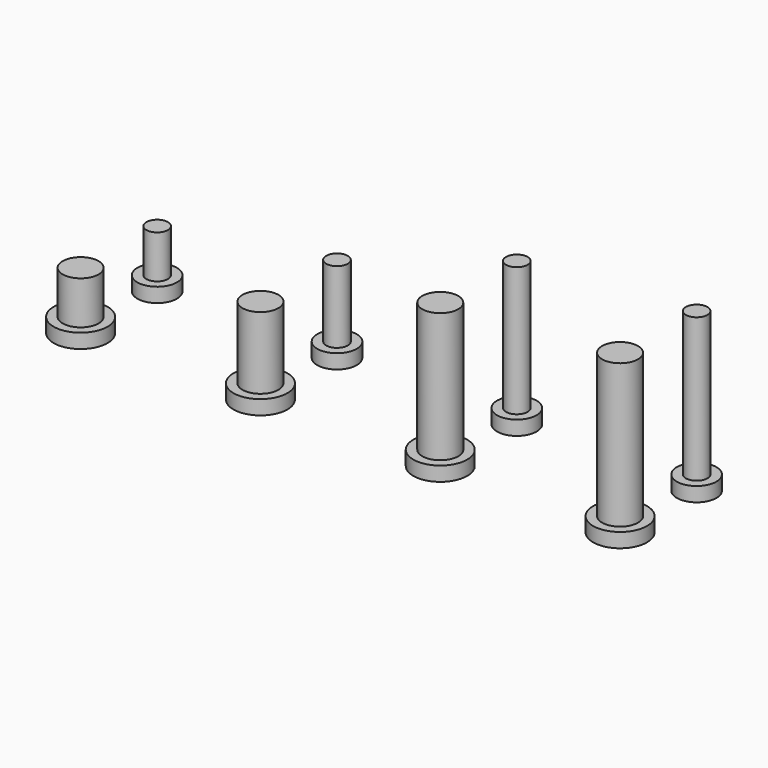
from build123d import *

# Parameters (mm, degrees)
F0_R     = 2.75
F0_R_2   = 3.75
F1_DEPTH = 2
F2_R     = 1.5
F3_R     = 2.5
F4_DEPTH = 6
F5_DEPTH = 10
F6_DEPTH = 18
F7_DEPTH = 20


with BuildPart() as f1:
    # F0 (on Top) → F1 (new body)
    with BuildSketch(Plane.XY):
        with Locations((-22.008536, 9.850945)):
            Circle(F0_R)
        with Locations((2.991464, 9.850945)):
            Circle(F0_R)
        with Locations((27.991464, 9.850945)):
            Circle(F0_R)
        with Locations((-22.375159, -2.993529)):
            Circle(F0_R_2)
        with Locations((27.624841, -2.993529)):
            Circle(F0_R_2)
        with Locations((52.991464, 9.850945)):
            Circle(F0_R)
        with Locations((2.624841, -2.993529)):
            Circle(F0_R_2)
        with Locations((52.624841, -2.993529)):
            Circle(F0_R_2)
    extrude(amount=F1_DEPTH)

    # F2 (on face) + F3 (on face) → F4 (join)
    with BuildSketch(Plane.XY.offset(2)):
        with Locations((-22.008536, 9.850945)):
            Circle(F2_R)
    with BuildSketch(Plane.XY.offset(2)):
        with Locations((-22.375159, -2.993529)):
            Circle(F3_R)
    extrude(amount=F4_DEPTH)

    # F3 (on face) + F2 (on face) → F5 (join)
    with BuildSketch(Plane.XY.offset(2)):
        with Locations((2.624841, -2.993529)):
            Circle(F3_R)
    with BuildSketch(Plane.XY.offset(2)):
        with Locations((2.991464, 9.850945)):
            Circle(F2_R)
    extrude(amount=F5_DEPTH)

    # F2 (on face) + F3 (on face) → F6 (join)
    with BuildSketch(Plane.XY.offset(2)):
        with Locations((27.991464, 9.850945)):
            Circle(F2_R)
    with BuildSketch(Plane.XY.offset(2)):
        with Locations((27.624841, -2.993529)):
            Circle(F3_R)
    extrude(amount=F6_DEPTH)

    # F2 (on face) + F3 (on face) → F7 (join)
    with BuildSketch(Plane.XY.offset(2)):
        with Locations((52.991464, 9.850945)):
            Circle(F2_R)
    with BuildSketch(Plane.XY.offset(2)):
        with Locations((52.624841, -2.993529)):
            Circle(F3_R)
    extrude(amount=F7_DEPTH)


solid = f1.part
